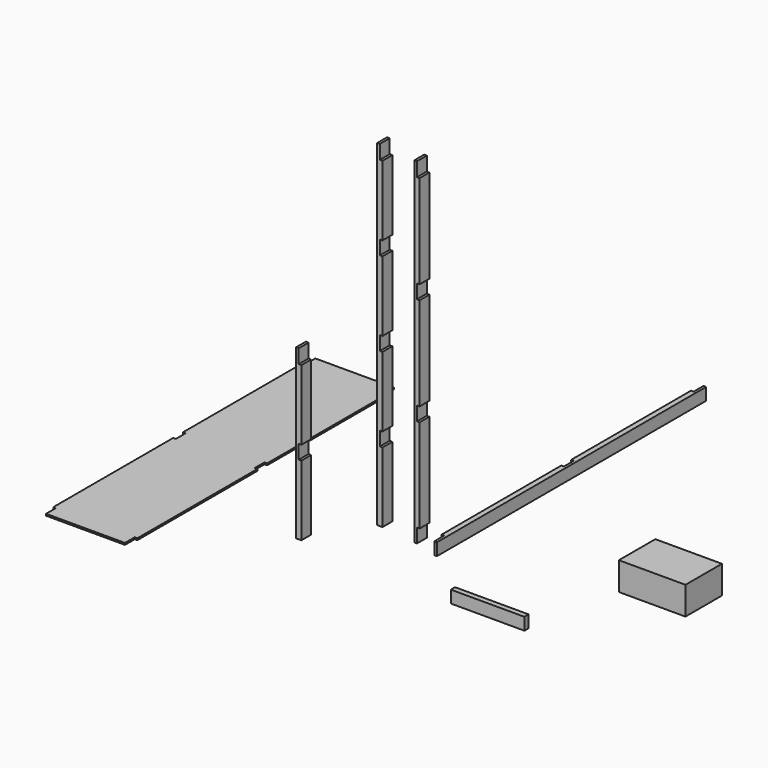
from build123d import *

# Parameters (mm, degrees)
F0_W      = 38.1
F0_H      = 88.9
F1_DEPTH  = 2438.4
F2_W      = 38.1
F2_H      = 88.9
F3_DEPTH  = 2438.4
F4_W      = 609.6
F4_H      = 2438.4
F5_DEPTH  = 12.7
F6_W      = 38.1
F6_H      = 88.9
F7_DEPTH  = 533.4
F9_DEPTH  = 88.9
F10_W     = 88.9
F10_H     = 101.6
F11_DEPTH = 19.05
F12_W     = 19.05
F12_H     = 88.9
F13_DEPTH = 12.7
F14_W     = 482.6
F14_H     = 330.2
F15_DEPTH = 203.2
F16_W     = 38.1
F16_H     = 88.9
F17_DEPTH = 2438.4
F18_W     = 19.05
F18_H     = 101.6
F19_DEPTH = 88.9
F20_W     = 38.1
F20_H     = 88.9
F21_DEPTH = 1219.2
F22_W     = 19.05
F22_H     = 101.6
F23_DEPTH = 88.9


with BuildPart() as f1:
    # F0 (on Top) → F1 (new body)
    with BuildSketch(Plane.XY):
        with Locations((19.05, 44.45)):
            Rectangle(F0_W, F0_H)
    extrude(amount=F1_DEPTH)

    # F10 (on face) → F11 (cut)
    with BuildSketch(Plane.YZ.offset(38.1)):
        with Locations((44.45, 2387.6)):
            Rectangle(F10_W, F10_H)
        with Locations((44.45, 50.8)):
            Rectangle(F10_W, F10_H)
        with Locations((44.45, 1608.666667)):
            Rectangle(F10_W, F10_H)
        with Locations((44.45, 829.733333)):
            Rectangle(F10_W, F10_H)
    extrude(amount=-F11_DEPTH, mode=Mode.SUBTRACT)


with BuildPart() as f3:
    # F2 (on Front) → F3 (new body)
    with BuildSketch(Plane.XZ):
        with Locations((144.580638, 10.224504)):
            Rectangle(F2_W, F2_H)
    extrude(amount=-F3_DEPTH)

    # F8 (on face) → F9 (cut)
    with BuildSketch(Plane.XY.offset(54.674504)):
        Polygon((125.530638, 88.9), (125.530638, 0), (144.580638, 0), (144.580638, 38.1), (144.580638, 88.9), align=None)
        Polygon((125.530638, 2438.4), (125.530638, 2349.5), (144.580638, 2349.5), (144.580638, 2400.3), (144.580638, 2438.4), align=None)
        Polygon((125.530638, 1219.2), (125.530638, 1174.75), (144.580638, 1174.75), (144.580638, 1200.15), (144.580638, 1238.25), (144.580638, 1263.65), (125.530638, 1263.65), align=None)
    extrude(amount=-F9_DEPTH, mode=Mode.SUBTRACT)


with BuildPart() as f5:
    # F4 (on Top) → F5 (new body)
    with BuildSketch(Plane.XY):
        with Locations((-1546.24953, 173.47331)):
            Rectangle(F4_W, F4_H)
    extrude(amount=F5_DEPTH)

    # F12 (on face) → F13 (cut, through all)
    with BuildSketch(Plane.XY.offset(12.7)):
        with Locations((-1841.52453, -1001.27669)):
            Rectangle(F12_W, F12_H)
        with Locations((-1250.97453, -1001.27669)):
            Rectangle(F12_W, F12_H)
        with Locations((-1250.97453, 173.47331)):
            Rectangle(F12_W, F12_H)
        Polygon((-1851.04953, 173.47331), (-1851.04953, 129.02331), (-1831.99953, 129.02331), (-1831.99953, 217.92331), (-1851.04953, 217.92331), align=None)
        with Locations((-1841.52453, 1348.22331)):
            Rectangle(F12_W, F12_H)
        with Locations((-1250.97453, 1348.22331)):
            Rectangle(F12_W, F12_H)
    extrude(amount=-F13_DEPTH, mode=Mode.SUBTRACT)


with BuildPart() as f7:
    # F6 (on Right) → F7 (new body)
    with BuildSketch(Plane.YZ):
        with Locations((349.676162, -479.290963)):
            Rectangle(F6_W, F6_H)
    extrude(amount=F7_DEPTH)


with BuildPart() as f15:
    # F14 (on Top) → F15 (new body)
    with BuildSketch(Plane.XY):
        with Locations((1524.317026, 414.247716)):
            Rectangle(F14_W, F14_H)
    extrude(amount=F15_DEPTH)


with BuildPart() as f17:
    # F16 (on Top) → F17 (new body)
    with BuildSketch(Plane.XY):
        with Locations((-277.788018, 79.5573)):
            Rectangle(F16_W, F16_H)
    extrude(amount=F17_DEPTH)

    # F18 (on face) → F19 (cut, through all)
    with BuildSketch(Plane.XZ.offset(-35.1073)):
        with Locations((-268.263018, 2387.6)):
            Rectangle(F18_W, F18_H)
        with Locations((-268.263018, 1778)):
            Rectangle(F18_W, F18_H)
        with Locations((-268.263018, 1168.4)):
            Rectangle(F18_W, F18_H)
        with Locations((-268.263018, 558.8)):
            Rectangle(F18_W, F18_H)
    extrude(amount=-F19_DEPTH, mode=Mode.SUBTRACT)


with BuildPart() as f21:
    # F20 (on Top) → F21 (new body)
    with BuildSketch(Plane.XY):
        with Locations((-535.01828, -333.832744)):
            Rectangle(F20_W, F20_H)
    extrude(amount=F21_DEPTH)

    # F22 (on face) → F23 (cut, through all)
    with BuildSketch(Plane.XZ.offset(378.282744)):
        with Locations((-525.49328, 1168.4)):
            Rectangle(F22_W, F22_H)
        with Locations((-525.49328, 558.8)):
            Rectangle(F22_W, F22_H)
    extrude(amount=-F23_DEPTH, mode=Mode.SUBTRACT)


solid = Compound([f1.part, f3.part, f5.part, f7.part, f15.part, f17.part, f21.part])
